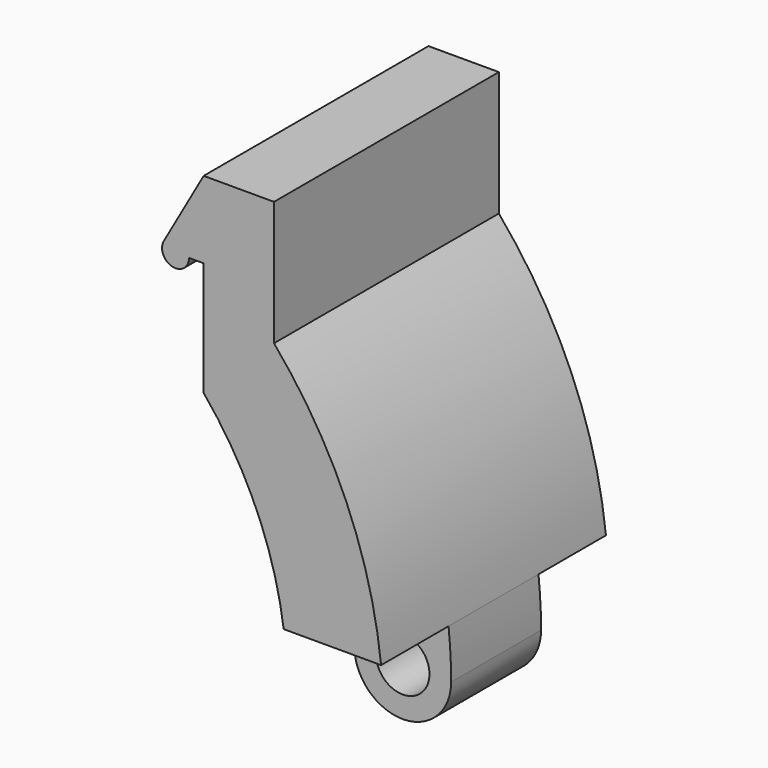
from build123d import *

# Parameters (mm, degrees)
F1_DEPTH = 5
F2_DEPTH = 12.5
F4_DEPTH = 25


with BuildPart() as f1:
    # F0 (on Front) → F1 (new body, symmetric)
    with BuildSketch(Plane.XZ):
        with BuildLine():
            ThreePointArc((40.396538, 4.302366), (35.393921, 19.941439), (24.609375, 32.322891))
            Line((24.609375, 32.322891), (24.609375, 20.486002))
            ThreePointArc((24.609375, 20.486002), (29.308809, 12.895398), (31.729911, 4.302366))
            Line((31.729911, 4.302366), (36.322634, 4.302366))
            Line((36.322634, 4.302366), (40.396538, 4.302366))
        make_face()
        with BuildLine():
            ThreePointArc((32.020269, 0), (36.322634, -4.302366), (40.625, 0))
            Line((40.625, 0), (38.697634, 0))
            ThreePointArc((38.697634, 0), (36.322634, -2.375), (33.947634, 0))
            Line((33.947634, 0), (32.020269, 0))
        make_face()
        with BuildLine():
            Line((38.697634, 0), (40.625, 0))
            ThreePointArc((40.625, 0), (39.364866, 3.042232), (36.322634, 4.302366))
            ThreePointArc((36.322634, 4.302366), (33.280402, 3.042232), (32.020269, 0))
            Line((32.020269, 0), (33.947634, 0))
            ThreePointArc((33.947634, 0), (36.322634, 2.375), (38.697634, 0))
        make_face()
        with BuildLine():
            ThreePointArc((32.020269, 0), (33.280402, 3.042232), (36.322634, 4.302366))
            Line((36.322634, 4.302366), (31.729911, 4.302366))
            ThreePointArc((31.729911, 4.302366), (31.947597, 2.156076), (32.020269, 0))
        make_face()
        with BuildLine():
            ThreePointArc((36.322634, 4.302366), (39.364866, 3.042232), (40.625, 0))
            ThreePointArc((40.625, 0), (40.567844, 2.154214), (40.396538, 4.302366))
            Line((40.396538, 4.302366), (36.322634, 4.302366))
        make_face()
    extrude(amount=F1_DEPTH, both=True)

    # F0 (on Front) → F2 (join, symmetric)
    with BuildSketch(Plane.XZ):
        with BuildLine():
            ThreePointArc((40.396538, 4.302366), (35.393921, 19.941439), (24.609375, 32.322891))
            Line((24.609375, 32.322891), (24.609375, 20.486002))
            ThreePointArc((24.609375, 20.486002), (29.308809, 12.895398), (31.729911, 4.302366))
            Line((31.729911, 4.302366), (36.322634, 4.302366))
            Line((36.322634, 4.302366), (40.396538, 4.302366))
        make_face()
    extrude(amount=F2_DEPTH, both=True)

    # F3 (on face) → F4 (join)
    with BuildSketch(Plane.XZ.offset(12.5)):
        Polygon((24.609375, 30.636002), (24.609375, 20.486002), (30.868572, 20.486002), (30.868572, 37.486002), (24.609375, 37.486002), align=None)
        with BuildLine():
            Line((23.309375, 30.636002), (24.609375, 30.636002))
            Line((24.609375, 30.636002), (24.609375, 37.486002))
            Line((24.609375, 37.486002), (21.065177, 31.227315))
            ThreePointArc((21.065177, 31.227315), (22.415122, 31.796397), (23.309375, 30.636002))
        make_face()
        with BuildLine():
            ThreePointArc((21.065177, 31.227315), (21.803628, 29.475606), (23.309375, 30.636002))
            ThreePointArc((23.309375, 30.636002), (22.415122, 31.796397), (21.065177, 31.227315))
        make_face()
    extrude(amount=-F4_DEPTH)


solid = f1.part
